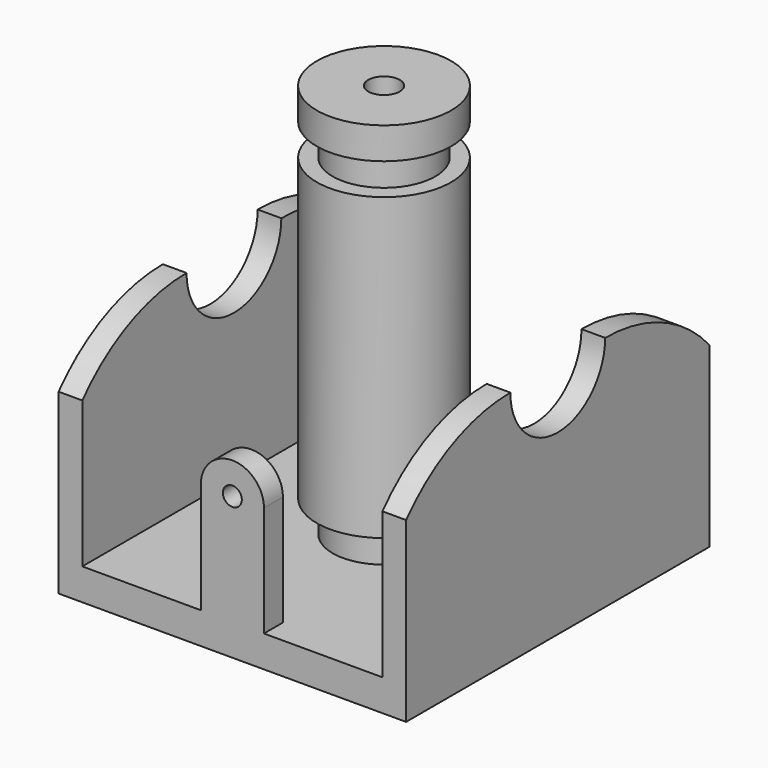
from build123d import *

# Parameters (mm, degrees)
F5_W      = 38
F5_H      = 48
F6_DEPTH  = 4
F9_DEPTH  = 3
F12_R     = 1.2
F13_DEPTH = 3


with BuildPart() as f2:
    # F1 (on Right) → F2 (revolve)
    with BuildSketch(Plane.YZ):
        Polygon((2, 54), (2, 0), (8.5, 0), (8.5, 4), (6.5, 4), (6.5, 8), (8.5, 8), (8.5, 46), (6.5, 46), (6.5, 50), (8.5, 50), (8.5, 54), align=None)
    revolve(axis=Axis((0, 0, 6.5396283753), (0, 0, 1)))


with BuildPart() as f6:
    # F5 (on Top) → F6 (new body)
    with BuildSketch(Plane.XY):
        Rectangle(F5_W, F5_H)
    extrude(amount=F6_DEPTH)



with BuildPart() as f9:
    # F8 (on face) → F9 (new body)
    with BuildSketch(Plane.YZ.offset(-19)):
        with BuildLine():
            ThreePointArc((0, 22.5), (-5.3033008589, 24.6966991411), (-7.5, 30))
            ThreePointArc((-7.5, 30), (-16.5622844802, 28.0370258564), (-24, 22.5))
            Line((-24, 22.5), (-24, 0))
            Line((-24, 0), (0, 0))
            Line((0, 0), (0, 22.5))
        make_face()
        with BuildLine():
            ThreePointArc((7.5, 30), (5.3033008589, 24.6966991411), (0, 22.5))
            Line((0, 22.5), (0, 0))
            Line((0, 0), (24, 0))
            Line((24, 0), (24, 22.5))
            ThreePointArc((24, 22.5), (16.5622844802, 28.0370258564), (7.5, 30))
        make_face()
    extrude(amount=-F9_DEPTH)


with BuildPart() as f6_1:
    add(f6.part)

    add(f9.part)  # F10 merges F9
    # F10: F9 across plane
    add(f9.part.mirror(Plane.YZ))

    # F12 (on face) → F13 (join)
    with BuildSketch(Plane.XZ.offset(24)):
        with BuildLine():
            Line((-4, 18), (-4, 4))
            Line((-4, 4), (4, 4))
            Line((4, 4), (4, 18))
            ThreePointArc((4, 18), (0, 22), (-4, 18))
        make_face()
        with Locations((0, 18)):
            Circle(F12_R, mode=Mode.SUBTRACT)
    extrude(amount=-F13_DEPTH)


solid = Compound([f2.part, f6_1.part])
